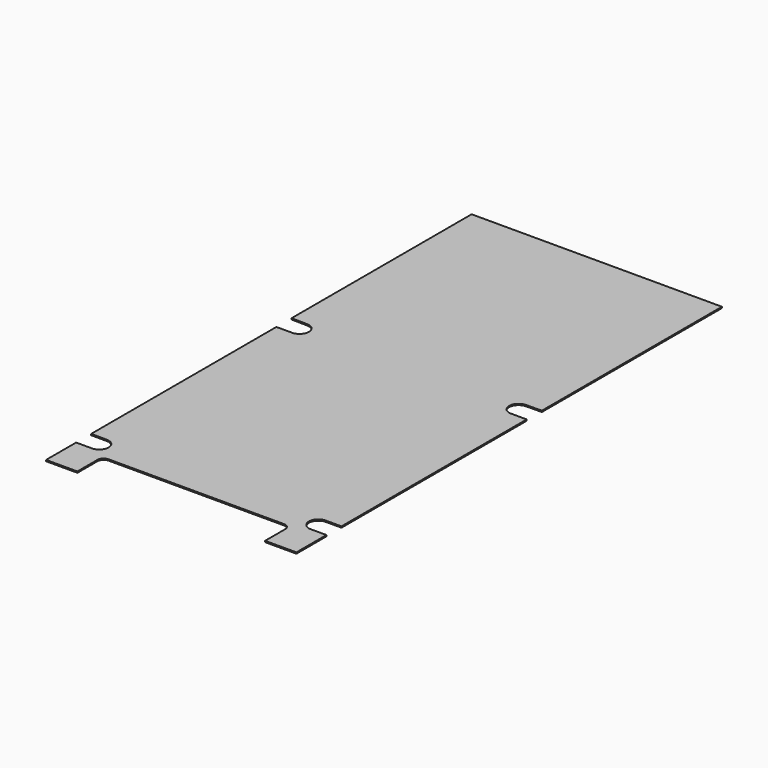
from build123d import *

# Parameters (mm, degrees)
F1_DEPTH = 4


with BuildPart() as f1:
    # F0 (on Top) → F1 (new body)
    with BuildSketch(Plane.XY):
        with BuildLine():
            Line((300, -850), (400, -850))
            Line((400, -850), (400, -730))
            Line((400, -730), (350, -730))
            ThreePointArc((350, -730), (320, -700), (350, -670))
            Line((350, -670), (400, -670))
            Line((400, -670), (400, 70.079606))
            Line((400, 70.079606), (352.18404, 70.079606))
            ThreePointArc((352.18404, 70.079606), (320.028924, 98.682964), (349.551072, 129.996641))
            Line((349.551072, 129.996641), (400, 130.751657))
            Line((400, 130.751657), (400, 850))
            Line((400, 850), (-400, 850))
            Line((-400, 850), (-400, 130.751657))
            Line((-400, 130.751657), (-349.551072, 129.996641))
            ThreePointArc((-349.551072, 129.996641), (-320.028924, 98.682964), (-352.18404, 70.079606))
            Line((-352.18404, 70.079606), (-400, 70.079606))
            Line((-400, 70.079606), (-400, -670))
            Line((-400, -670), (-350, -670))
            ThreePointArc((-350, -670), (-320, -700), (-350, -730))
            Line((-350, -730), (-400, -730))
            Line((-400, -730), (-400, -850))
            Line((-400, -850), (-300, -850))
            Line((-300, -850), (-300, -770))
            ThreePointArc((-300, -770), (-294.142136, -755.857864), (-280, -750))
            Line((-280, -750), (280, -750))
            ThreePointArc((280, -750), (294.142136, -755.857864), (300, -770))
            Line((300, -770), (300, -850))
        make_face()
    extrude(amount=F1_DEPTH)


solid = f1.part
